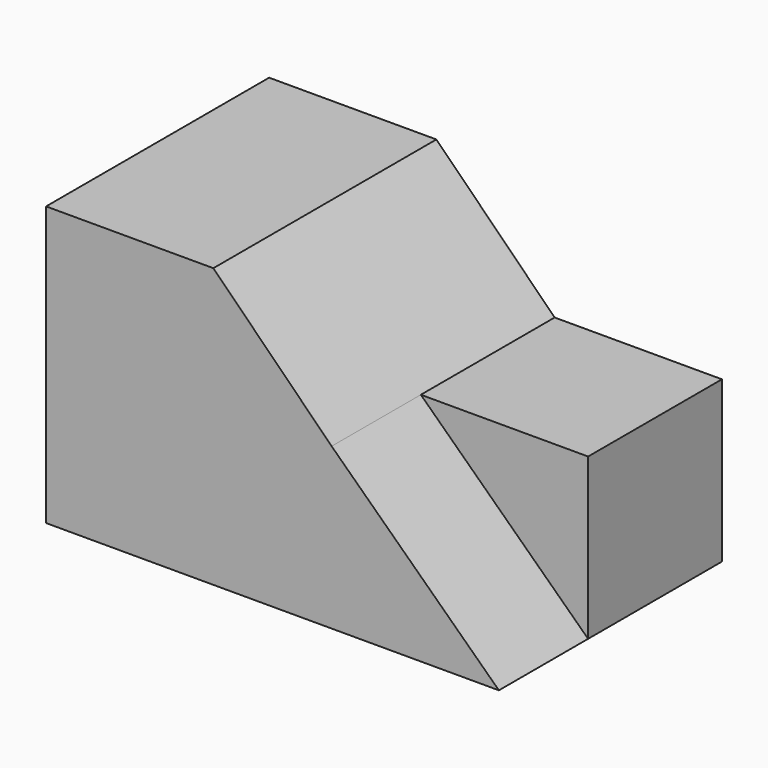
from build123d import *

# Parameters (mm, degrees)
F0_W     = 50.8
F0_H     = 31.75
F1_DEPTH = 31.75
F3_DEPTH = 31.75
F5_DEPTH = 31.75
F7_DEPTH = 12.7


with BuildPart() as f1:
    # F0 (on Front) → F1 (new body)
    with BuildSketch(Plane.XZ):
        with Locations((25.4, 15.875)):
            Rectangle(F0_W, F0_H)
    extrude(amount=F1_DEPTH)

    # F2 (on face) → F3 (cut)
    with BuildSketch(Plane.XZ.offset(31.75)):
        Polygon((50.8, 31.75), (19.05, 31.75), (50.8, 0), align=None)
    extrude(amount=-F3_DEPTH, mode=Mode.SUBTRACT)

    # F4 (on face) → F5 (join)
    with BuildSketch(Plane.XZ.offset(31.75)):
        Polygon((51.5703841816, 18.2796158184), (32.5203841816, 18.2796158184), (50.8, 0), (51.5703841816, 0), align=None)
    extrude(amount=-F5_DEPTH)

    # F6 (on face) → F7 (cut)
    with BuildSketch(Plane.XZ.offset(31.75)):
        Polygon((51.5703841816, 18.2796158184), (32.5203841816, 18.2796158184), (51.5703841816, 0), align=None)
    extrude(amount=-F7_DEPTH, mode=Mode.SUBTRACT)


solid = f1.part
